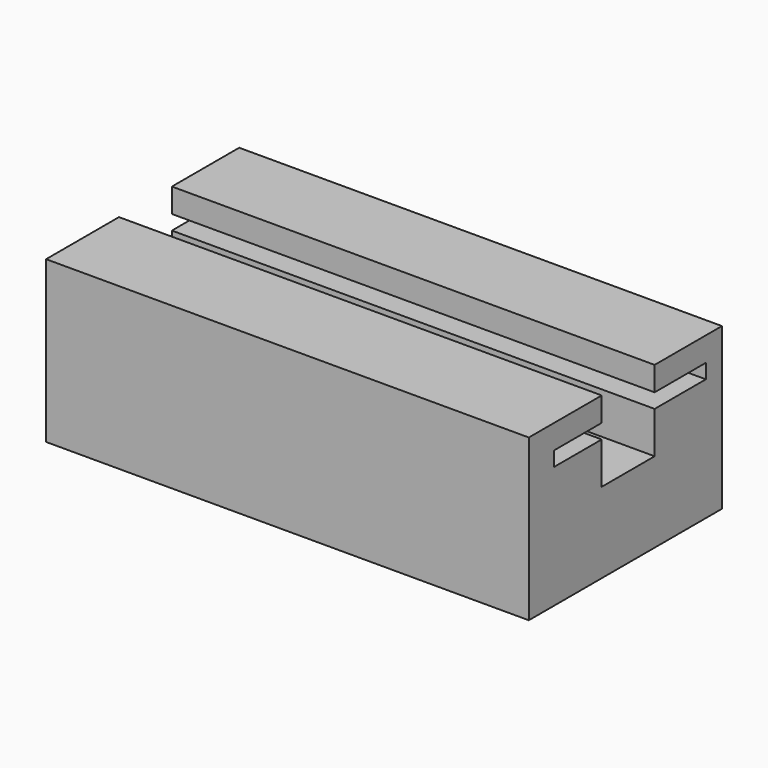
from build123d import *

# Parameters (mm, degrees)
F0_W     = 152.4
F0_H     = 50.8
F1_DEPTH = 76.2
F2_W     = 59.863596
F2_H     = 4.604891
F3_DEPTH = 152.4
F4_W     = 152.4
F4_H     = 20.887783
F5_DEPTH = 25.4


with BuildPart() as f1:
    # F0 (on Front) → F1 (new body)
    with BuildSketch(Plane.XZ):
        with Locations((-4.536367, 36.624424)):
            Rectangle(F0_W, F0_H)
    extrude(amount=F1_DEPTH)

    # F2 (on face) → F3 (cut, through all)
    with BuildSketch(Plane.YZ.offset(71.663633)):
        with Locations((-36.263526, 52.092843)):
            Rectangle(F2_W, F2_H)
    extrude(amount=-F3_DEPTH, mode=Mode.SUBTRACT)

    # F4 (on face) → F5 (cut)
    with BuildSketch(Plane.XY.offset(62.024424)):
        with Locations((-4.536367, -36.993027)):
            Rectangle(F4_W, F4_H)
    extrude(amount=-F5_DEPTH, mode=Mode.SUBTRACT)


solid = f1.part
